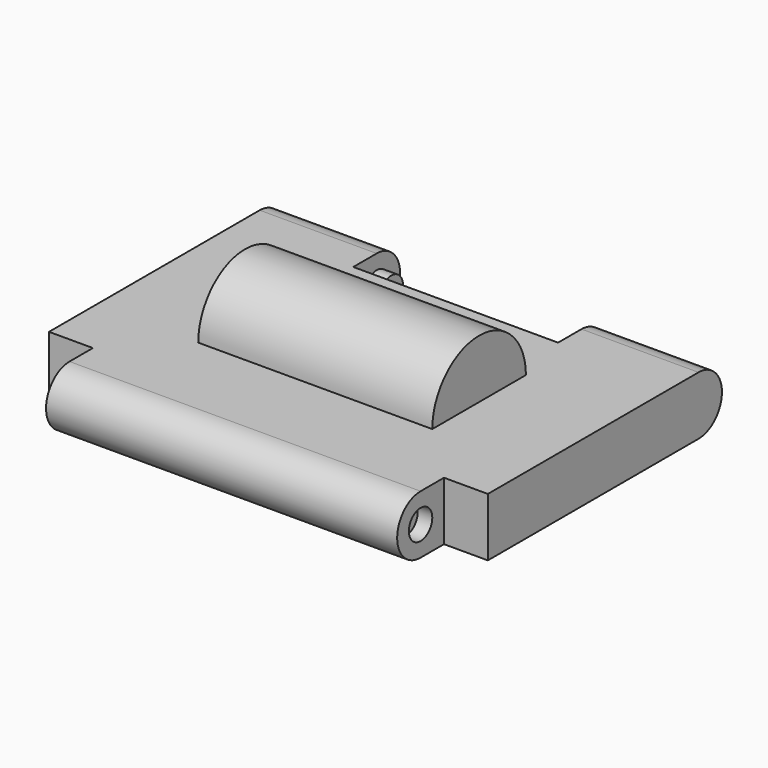
from build123d import *

# Parameters (mm, degrees)
F1_DEPTH  = 7.5
F2_W      = 7
F2_H      = 2.1077826433
F2_W_2    = 1.5
F2_H_2    = 2.502781529
F2_H_3    = 3.0992894471
F3_DEPTH  = 5
F4_R      = 0.5
F5_DEPTH  = 0.5
F6_R      = 0.5
F7_DEPTH  = 0.5
F8_R      = 0.5
F9_DEPTH  = 0.5
F10_R     = 0.5
F11_DEPTH = 0.5
F13_DEPTH = 4


with BuildPart() as f1:
    # F0 (on Right) → F1 (new body, symmetric)
    with BuildSketch(Plane.YZ):
        with BuildLine():
            ThreePointArc((5, -1), (6, 0), (5, 1))
            Line((5, 1), (-5, 1))
            ThreePointArc((-5, 1), (-6, 0), (-5, -1))
            Line((-5, -1), (5, -1))
        make_face()
    extrude(amount=F1_DEPTH, both=True)

    # F2 (on face) → F3 (cut)
    with BuildSketch(Plane.XY.offset(1)):
        with Locations((0, 5.0538913216)):
            Rectangle(F2_W, F2_H)
        with Locations((-6.75, -5.2513907645)):
            Rectangle(F2_W_2, F2_H_2)
        with Locations((6.75, -5.5496447235)):
            Rectangle(F2_W_2, F2_H_3)
    extrude(amount=-F3_DEPTH, mode=Mode.SUBTRACT)

    # F4 (on face) → F5 (cut)
    with BuildSketch(Plane(origin=(-6, 0, 0), x_dir=(0, -1, 0), z_dir=(-1, 0, 0))):
        with Locations((5, 0)):
            Circle(F4_R)
    extrude(amount=-F5_DEPTH, mode=Mode.SUBTRACT)

    # F6 (on face) → F7 (cut)
    with BuildSketch(Plane.YZ.offset(6)):
        with Locations((-5, 0)):
            Circle(F6_R)
    extrude(amount=-F7_DEPTH, mode=Mode.SUBTRACT)

    # F8 (on face) → F9 (join)
    with BuildSketch(Plane.YZ.offset(-3.5)):
        with Locations((5, 0)):
            Circle(F8_R)
    extrude(amount=F9_DEPTH)

    # F10 (on face) → F11 (join)
    with BuildSketch(Plane(origin=(3.5, 0, 0), x_dir=(0, -1, 0), z_dir=(-1, 0, 0))):
        with Locations((-5, 0)):
            Circle(F10_R)
    extrude(amount=F11_DEPTH)

    # F12 (on Right) → F13 (join, symmetric)
    with BuildSketch(Plane.YZ):
        with BuildLine():
            Line((-2, 1), (2, 1))
            ThreePointArc((2, 1), (0, 3), (-2, 1))
        make_face()
    extrude(amount=F13_DEPTH, both=True)


solid = f1.part
